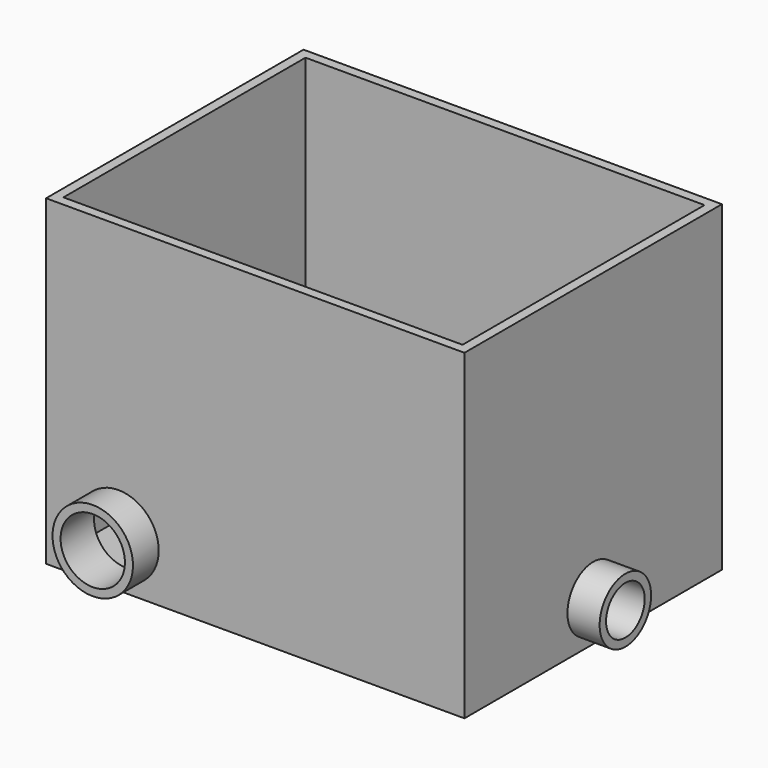
from build123d import *

# Parameters (mm, degrees)
F0_W      = 330.2
F0_H      = 254
F1_DEPTH  = 254
F2_T      = -7.62
F3_R      = 25.4
F4_DEPTH  = 25.4
F6_D      = 38.1
F6_DEPTH  = 76.2
F7_R      = 31.75
F8_DEPTH  = 25.4
F9_R      = 25.4
F10_DEPTH = 76.2


with BuildPart() as f1:
    # F0 (on Top) → F1 (new body)
    with BuildSketch(Plane.XY):
        Rectangle(F0_W, F0_H)
    extrude(amount=F1_DEPTH)

    # F2
    f2_openings = [f1.faces().sort_by_distance(p)[0] for p in [
        (0, 0, 254),
    ]]
    offset(amount=F2_T, openings=f2_openings)

    # F3 (on face) → F4 (join)
    with BuildSketch(Plane.YZ.offset(165.1)):
        with Locations((0, 31.760685)):
            Circle(F3_R)
    extrude(amount=F4_DEPTH)

    # F6
    with Locations(Plane.YZ.offset(190.5)):
        with Locations((0, 31.760685)):
            Hole(F6_D / 2, depth=F6_DEPTH)

    # F7 (on face) → F8 (join)
    with BuildSketch(Plane.XZ.offset(127)):
        with Locations((-107.95, 38.1)):
            Circle(F7_R)
    extrude(amount=F8_DEPTH)

    # F9 (on face) → F10 (cut)
    with BuildSketch(Plane.XZ.offset(152.4)):
        with Locations((-107.95, 38.1)):
            Circle(F9_R)
    extrude(amount=-F10_DEPTH, mode=Mode.SUBTRACT)


solid = f1.part
